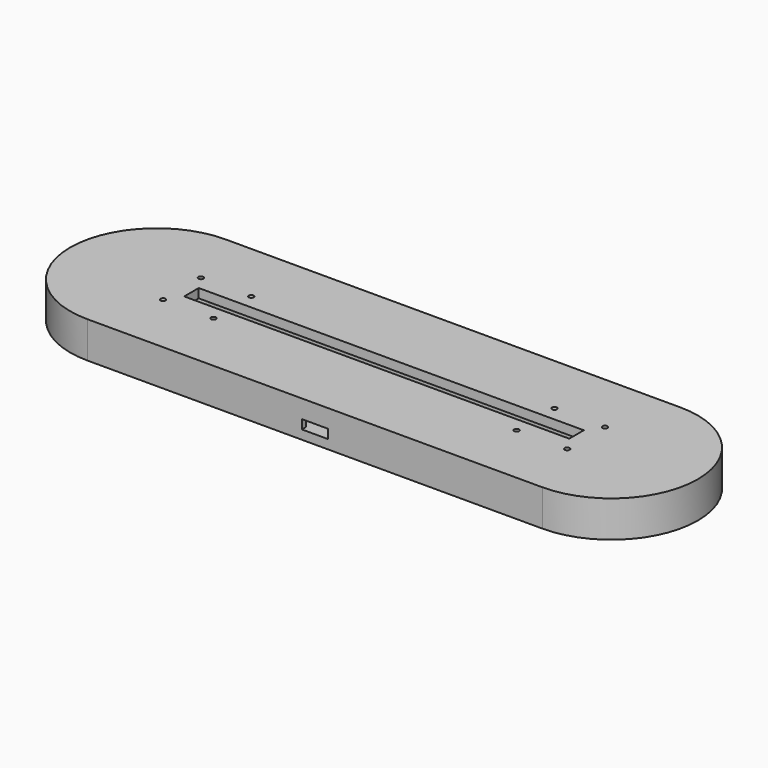
from build123d import *

# Parameters (mm, degrees)
PAD_DEPTH          = 6
POCKET_DEPTH       = 3
SKETCH002_W        = 18.4
SKETCH002_H        = 20.85
POCKET001_DEPTH    = 3
SKETCH003_W        = 8.55
SKETCH003_H        = 1.65
POCKET002_DEPTH    = 3
PAD001_DEPTH       = 3
SKETCH005_W        = 127
SKETCH005_H        = 6
PAD002_DEPTH       = 3
SKETCH006_R        = 0.825
POCKET003_DEPTH    = 442.080062
POLARPATTERN_COUNT = 2


with BuildPart() as part:
    # Sketch → Pad (new body)
    with BuildSketch(Plane.XY):
        with BuildLine():
            ThreePointArc((-75, 28.5), (-103.5, 0), (-75, -28.5))
            Line((-75, -28.5), (75, -28.5))
            ThreePointArc((75, -28.5), (103.5, 0), (75, 28.5))
            Line((-75, 28.5), (75, 28.5))
        make_face()
    extrude(amount=PAD_DEPTH)

    # Sketch001 (on Face6 of Pad) → Pocket (cut)
    with BuildSketch(Plane.XY.offset(6)):
        with BuildLine():
            ThreePointArc((-62.5, 6), (-68.5, 0), (-62.5, -6))
            Line((-62.5, -6), (62.5, -6))
            ThreePointArc((62.5, -6), (68.5, 0), (62.5, 6))
            Line((-62.5, 6), (62.5, 6))
        make_face()
    extrude(amount=-POCKET_DEPTH, mode=Mode.SUBTRACT)

    # Sketch002 (on Face5 of Pocket) → Pocket001 (cut)
    with BuildSketch(Plane.XY.offset(6)):
        with Locations((0, -16.425)):
            Rectangle(SKETCH002_W, SKETCH002_H)
    extrude(amount=-POCKET001_DEPTH, mode=Mode.SUBTRACT)

    # Sketch003 (on Face5 of Pocket001) → Pocket002 (cut)
    with BuildSketch(Plane.XY.offset(6)):
        with Locations((0, -27.675)):
            Rectangle(SKETCH003_W, SKETCH003_H)
    extrude(amount=-POCKET002_DEPTH, mode=Mode.SUBTRACT)

    # Sketch004 (on Face5 of Pocket002) → Pad001 (join)
    with BuildSketch(Plane.XY.offset(6)):
        with BuildLine():
            ThreePointArc((-75, 28.5), (-103.5, 0), (-75, -28.5))
            Line((-75, -28.5), (75, -28.5))
            ThreePointArc((75, -28.5), (103.5, 0), (75, 28.5))
            Line((-75, 28.5), (75, 28.5))
        make_face()
        with BuildLine():
            ThreePointArc((-62.5, 6), (-68.5, 0), (-62.5, -6))
            Line((-62.5, -6), (62.5, -6))
            ThreePointArc((62.5, -6), (68.5, 0), (62.5, 6))
            Line((-62.5, 6), (62.5, 6))
        make_face(mode=Mode.SUBTRACT)
    extrude(amount=PAD001_DEPTH)

    # Sketch005 (on Face12 of Pad001) → Pad002 (join)
    with BuildSketch(Plane.XY.offset(9)):
        with BuildLine():
            ThreePointArc((-75, 28.5), (-103.5, 0), (-75, -28.5))
            Line((-75, -28.5), (75, -28.5))
            ThreePointArc((75, -28.5), (103.5, 0), (75, 28.5))
            Line((-75, 28.5), (75, 28.5))
        make_face()
        Rectangle(SKETCH005_W, SKETCH005_H, mode=Mode.SUBTRACT)
    extrude(amount=PAD002_DEPTH)

    # Sketch006 (on Face20 of Pad002) → Pocket003 (cut, through all)
    with BuildSketch(Plane.XY.offset(12)):
        with Locations((-66.64, -7.79)):
            Circle(SKETCH006_R)
        with Locations((-50, -7.79)):
            Circle(SKETCH006_R)
    pocket003 = extrude(amount=-POCKET003_DEPTH, mode=Mode.SUBTRACT)

    # Mirrored: Pocket003 across Sketch006 H_Axis
    add(pocket003.mirror(Plane(origin=(0, 0, 12), x_dir=(0, 0, 1), z_dir=(0, 1, 0))), mode=Mode.SUBTRACT)

    # Mirrored001: Pocket003 across Sketch006 V_Axis
    add(pocket003.mirror(Plane(origin=(0, 0, 12), x_dir=(0, 0, 1), z_dir=(1, 0, 0))), mode=Mode.SUBTRACT)

    # PolarPattern: Pocket003 ×2 about axis
    polarpattern_axis = Axis((0, 0, 12), (0, 0, 1))
    for i in range(1, POLARPATTERN_COUNT):
        add(pocket003.rotate(polarpattern_axis, i * 360 / POLARPATTERN_COUNT), mode=Mode.SUBTRACT)


solid = part.part
